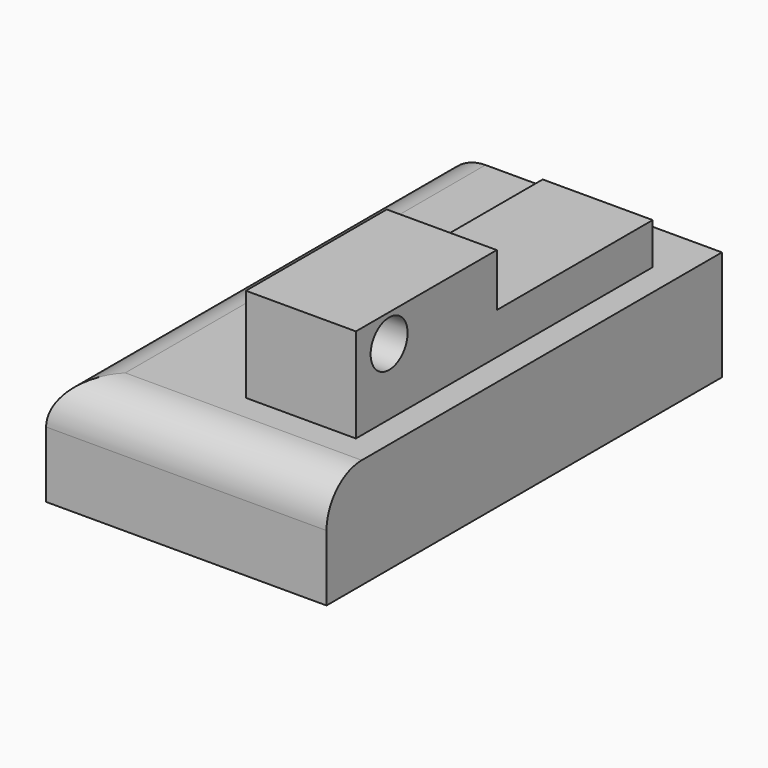
from build123d import *

# Parameters (mm, degrees)
F0_W     = 63.7431945652
F0_H     = 112.3366653919
F0_W_2   = 17.1506376937
F0_H_2   = 100.6170623004
F1_DEPTH = 25
F2_R     = 5.2551759541
F3_DEPTH = 25
F4_R     = 10


with BuildPart() as f1:
    # F0 (on Top) → F1 (new body)
    with BuildSketch(Plane.XY):
        with Locations((-0.8575329557, 0.2858452499)):
            Rectangle(F0_W, F0_H)
        with Locations((-0.4287636839, 0.1429226249)):
            Rectangle(F0_W_2, F0_H_2, mode=Mode.SUBTRACT)
        with Locations((-0.4287636839, 0.1429226249)):
            Rectangle(F0_W_2, F0_H_2)
    extrude(amount=F1_DEPTH)

    # F4
    f4_edges = [f1.edges().sort_by_distance(p)[0] for p in [
        (-32.72913, 0.285845, 25),
        (-0.857533, -55.882487, 25),
    ]]
    fillet(f4_edges, radius=F4_R)


with BuildPart() as f3:
    # F2 (on Right) → F3 (new body)
    with BuildSketch(Plane.YZ):
        Polygon((-40.0181524456, 46.4496389031), (-40.0181524456, 25.0113438815), (44.3058088422, 25.0113438815), (44.3058088422, 34.4441942871), (0, 34.4441942871), (0, 46.4496389031), align=None)
        with Locations((-30.5853001773, 40.1610732079)):
            Circle(F2_R, mode=Mode.SUBTRACT)
    extrude(amount=F3_DEPTH)


solid = Compound([f1.part, f3.part])
